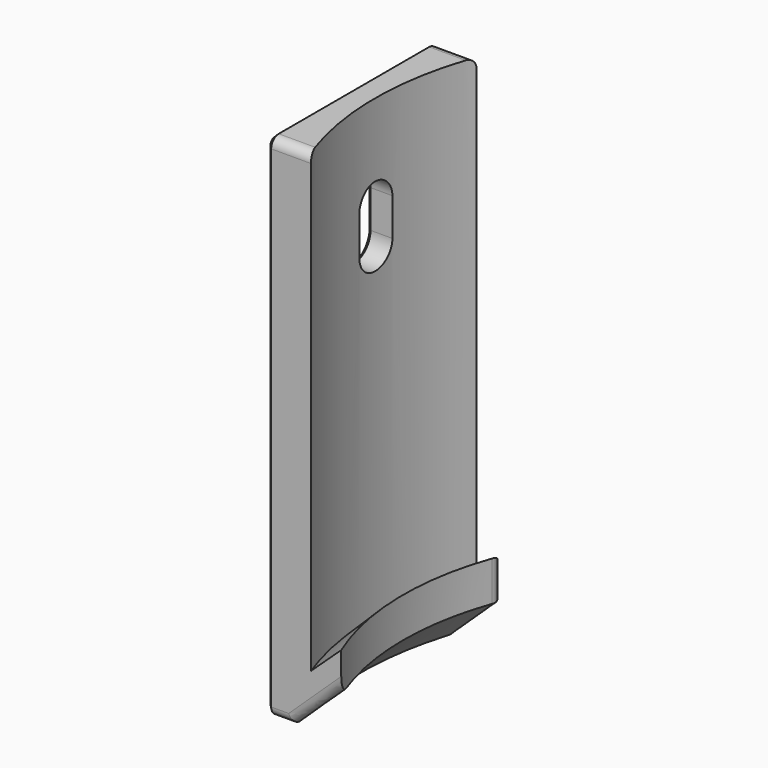
from build123d import *

# Parameters (mm, degrees)
BOX_W           = 9
BOX_H           = 22
BOX_DEPTH       = 56.284271
POCKET077_DEPTH = 34.251
FILLET010_R     = 1
CHAMFER001_SIZE = 0.4


with BuildPart() as part:
    # Box → Box (join)
    with BuildSketch(Plane(origin=(-34.25, -11, -59.534271), x_dir=(1, 0, 0), z_dir=(0, 0, 1))):
        with Locations((4.5, 11)):
            Rectangle(BOX_W, BOX_H)
    extrude(amount=BOX_DEPTH)

    # Sketch136 → Pocket077 (cut, through all)
    with BuildSketch(Plane.YZ):
        with BuildLine():
            ThreePointArc((2.2, -13.25), (0, -11.05), (-2.2, -13.25))
            Line((-2.2, -13.25), (-2.2, -17.25))
            ThreePointArc((-2.2, -17.25), (0, -19.45), (2.2, -17.25))
            Line((2.2, -13.25), (2.2, -17.25))
        make_face()
    extrude(amount=-POCKET077_DEPTH, mode=Mode.SUBTRACT)

    # Sketch228 → Groove003 (revolve, cut)
    with BuildSketch(Plane.XZ):
        Polygon((-31.6, 0), (-31.6, -51.74899), (-28.6, -48.74899), (-28.6, -52.991631), (-33.1, -57.491631), (-36.1, -57.491631), (-36.1, -60.74899), (-19.6, -60.74899), (-19.6, 0), align=None)
    revolve(axis=Axis((0, 0, 0), (0, 0, 1)), mode=Mode.SUBTRACT)

    # Fillet010
    fillet010_edges = [part.edges().sort_by_distance(p)[0] for p in [
        (-32.734372, -11, -57.491631),
        (-28.815375, -11, -55.235201),
        (-32.734372, 11, -57.491631),
        (-28.815375, 11, -55.235201),
        (-26.4, 11, -50.87031),
        (-31.93682, 11, -3.25),
        (-31.93682, -11, -3.25),
    ]]
    fillet(fillet010_edges, radius=FILLET010_R)

    # Chamfer001
    chamfer001_edges = [part.edges().sort_by_distance(p)[0] for p in [
        (-34.25, 0, -57.491631),
        (-34.25, 10.707107, -57.198737),
        (-34.25, 11, -30.370815),
        (-34.25, 10.707107, -3.542893),
        (-34.25, 0, -3.25),
        (-34.25, -10.707107, -3.542893),
        (-34.25, -11, -30.370815),
        (-34.25, -10.707107, -57.198737),
        (-34.25, 0, -19.45),
        (-34.25, 2.2, -15.25),
        (-34.25, 0, -11.05),
        (-34.25, -2.2, -15.25),
    ]]
    chamfer(chamfer001_edges, length=CHAMFER001_SIZE)


with BuildPart() as part_1:
    # Body022028 placement: moved
    add(part.part.moved(Location((-3.125, 0, 854.79899))))


solid = part_1.part
